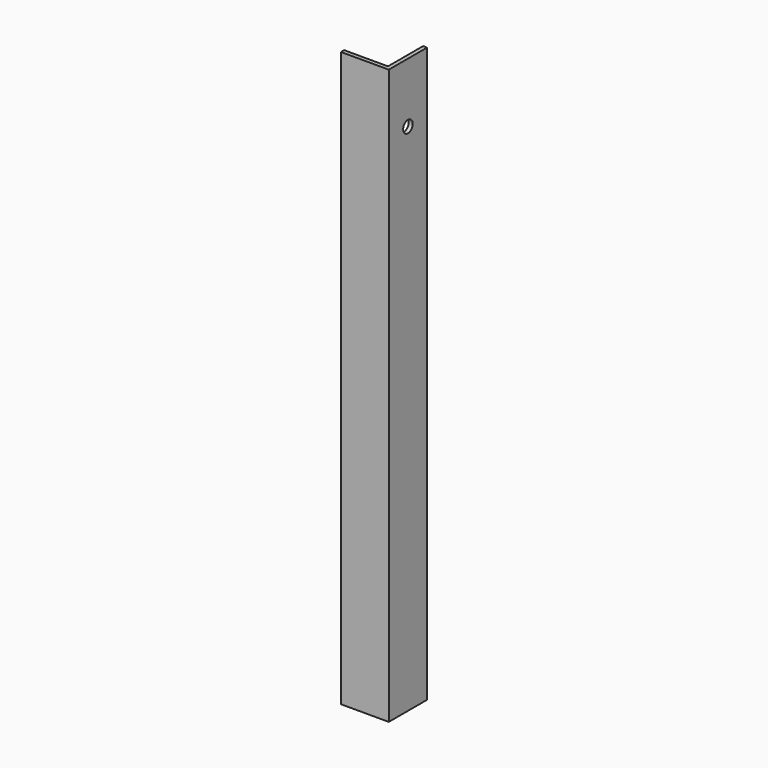
from build123d import *

# Parameters (mm, degrees)
F1_DEPTH = 457.2
F2_R     = 4.7625
F3_DEPTH = 38.101


with BuildPart() as f1:
    # F0 (on Top) → F1 (new body)
    with BuildSketch(Plane.XY):
        Polygon((0, 3.175), (0, 0), (38.1, 0), (38.1, 38.1), (34.925, 38.1), (34.925, 3.175), align=None)
    extrude(amount=F1_DEPTH)

    # F2 (on face) → F3 (cut, through all)
    with BuildSketch(Plane.YZ.offset(38.1)):
        with Locations((19.05, 409.575)):
            Circle(F2_R)
    extrude(amount=-F3_DEPTH, mode=Mode.SUBTRACT)


solid = f1.part
